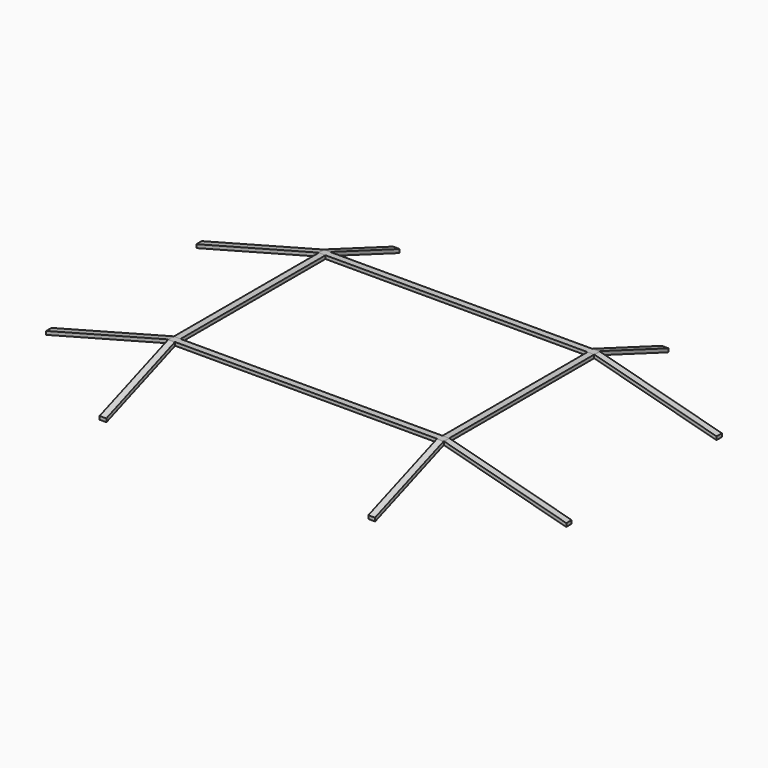
from build123d import *

# Parameters (mm, degrees)
F0_W      = 1573.3268
F0_H      = 38.1
F1_DEPTH  = 19.05
F2_W      = 38.1
F2_H      = 1035.3548
F3_DEPTH  = 19.05
F7_DEPTH  = 38.1
F11_DEPTH = 38.1


with BuildPart() as f1:
    # F0 (on Top) → F1 (new body)
    with BuildSketch(Plane.XY):
        with Locations((0, 536.7274)):
            Rectangle(F0_W, F0_H)
    extrude(amount=-F1_DEPTH)


with BuildPart() as f3:
    # F2 (on Top) → F3 (new body)
    with BuildSketch(Plane.XY):
        with Locations((767.6134, 0)):
            Rectangle(F2_W, F2_H)
    extrude(amount=-F3_DEPTH)


with BuildPart() as f4_1:
    # F4: instance of F1
    add(f1.part.mirror(Plane.XZ))


with BuildPart() as f5_1:
    # F5: instance of F3
    add(f3.part.mirror(Plane.YZ))


with BuildPart() as f7:
    # F6 (on face) → F7 (new body)
    with BuildSketch(Plane.YZ.offset(786.6634)):
        Polygon((555.7774, 0), (555.7774, -19.05), (1044.278598, -203.2), (1047.75, -203.2), (1047.75, -184.15), (559.248802, 0), align=None)
    extrude(amount=-F7_DEPTH)


with BuildPart() as f8_1:
    # F8: instance of F7
    add(f7.part.mirror(Plane.YZ))


with BuildPart() as f9_1:
    # F9: instance of F8_1
    add(f8_1.part.mirror(Plane.XZ))


with BuildPart() as f9_2:
    # F9: instance of F7
    add(f7.part.mirror(Plane.XZ))


with BuildPart() as f11:
    # F10 (on face) → F11 (new body)
    with BuildSketch(Plane(origin=(0, 555.7774, 0), x_dir=(-1, 0, 0), z_dir=(0, 1, 0))):
        Polygon((-786.6634, 0), (-789.138312, 0), (-1485.9, -184.15), (-1485.9, -203.2), (-1483.425088, -203.2), (-786.6634, -19.05), align=None)
    extrude(amount=-F11_DEPTH)


with BuildPart() as f12_1:
    # F12: instance of F11
    add(f11.part.mirror(Plane.XZ))


with BuildPart() as f13_1:
    # F13: instance of F12_1
    add(f12_1.part.mirror(Plane.YZ))


with BuildPart() as f13_2:
    # F13: instance of F11
    add(f11.part.mirror(Plane.YZ))


solid = Compound([f1.part, f3.part, f4_1.part, f5_1.part, f7.part, f8_1.part, f9_1.part, f9_2.part, f11.part, f12_1.part, f13_1.part, f13_2.part])
